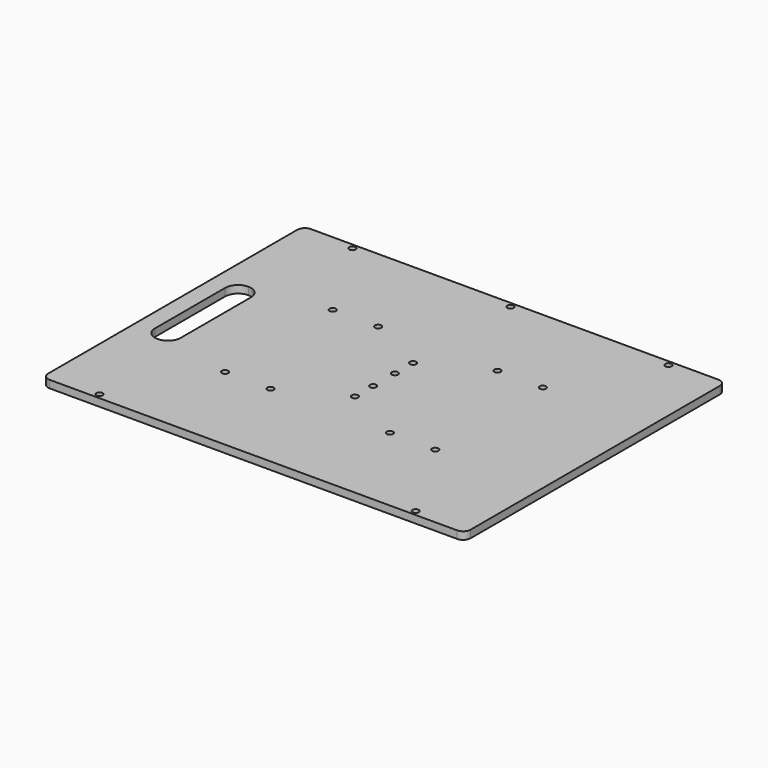
from build123d import *

# Parameters (mm, degrees)
F0_R     = 2.125
F1_DEPTH = 2.5


with BuildPart() as f1:
    # F0 (on Top) → F1 (new body, symmetric)
    with BuildSketch(Plane.XY):
        with BuildLine():
            Line((-134.7, -107.95), (134.7, -107.95))
            ThreePointArc((134.7, -107.95), (138.235534, -106.485534), (139.7, -102.95))
            Line((139.7, -102.95), (139.7, 0))
            Line((139.7, 0), (139.7, 102.95))
            ThreePointArc((139.7, 102.95), (138.235534, 106.485534), (134.7, 107.95))
            Line((134.7, 107.95), (-134.7, 107.95))
            ThreePointArc((-134.7, 107.95), (-138.235534, 106.485534), (-139.7, 102.95))
            Line((-139.7, 102.95), (-139.7, 0))
            Line((-139.7, 0), (-139.7, -102.95))
            ThreePointArc((-139.7, -102.95), (-138.235534, -106.485534), (-134.7, -107.95))
        make_face()
        with Locations((-104.5, -104.5)):
            Circle(F0_R, mode=Mode.SUBTRACT)
        with Locations((-69.5, -44.5)):
            Circle(F0_R, mode=Mode.SUBTRACT)
        with Locations((-39.5, -44.5)):
            Circle(F0_R, mode=Mode.SUBTRACT)
        with Locations((104.5, -104.5)):
            Circle(F0_R, mode=Mode.SUBTRACT)
        with Locations((39.5, -44.5)):
            Circle(F0_R, mode=Mode.SUBTRACT)
        with Locations((69.5, -44.5)):
            Circle(F0_R, mode=Mode.SUBTRACT)
        with Locations((0, -24)):
            Circle(F0_R, mode=Mode.SUBTRACT)
        with Locations((0, -9)):
            Circle(F0_R, mode=Mode.SUBTRACT)
        with BuildLine():
            ThreePointArc((-119.7, 37.5), (-113.689592, 35.010408), (-111.2, 29))
            Line((-111.2, 29), (-111.2, -29))
            ThreePointArc((-111.2, -29), (-113.689592, -35.010408), (-119.7, -37.5))
            ThreePointArc((-119.7, -37.5), (-125.710408, -35.010408), (-128.2, -29))
            Line((-128.2, -29), (-128.2, 29))
            ThreePointArc((-128.2, 29), (-125.710408, 35.010408), (-119.7, 37.5))
        make_face(mode=Mode.SUBTRACT)
        with Locations((-69.5, 44.5)):
            Circle(F0_R, mode=Mode.SUBTRACT)
        with Locations((-39.5, 44.5)):
            Circle(F0_R, mode=Mode.SUBTRACT)
        with Locations((-104.5, 104.5)):
            Circle(F0_R, mode=Mode.SUBTRACT)
        with Locations((0, 9)):
            Circle(F0_R, mode=Mode.SUBTRACT)
        with Locations((0, 24)):
            Circle(F0_R, mode=Mode.SUBTRACT)
        with Locations((39.5, 44.5)):
            Circle(F0_R, mode=Mode.SUBTRACT)
        with Locations((69.5, 44.5)):
            Circle(F0_R, mode=Mode.SUBTRACT)
        with Locations((0, 104.5)):
            Circle(F0_R, mode=Mode.SUBTRACT)
        with Locations((104.5, 104.5)):
            Circle(F0_R, mode=Mode.SUBTRACT)
    extrude(amount=F1_DEPTH, both=True)


solid = f1.part
